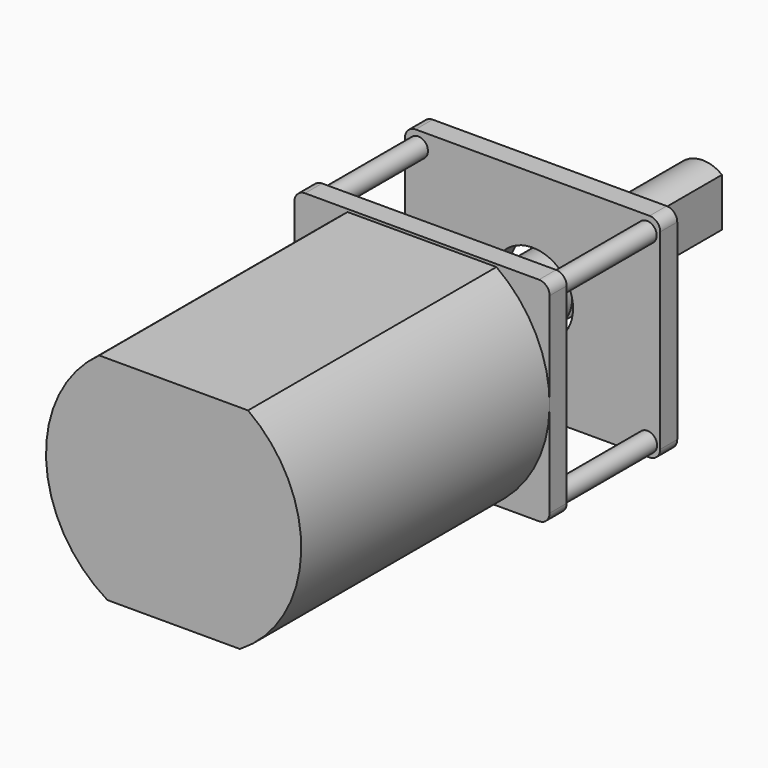
from build123d import *

# Parameters (mm, degrees)
PAD011_DEPTH    = 14.6
SKETCH023_W     = 12
SKETCH023_H     = 10
PAD012_DEPTH    = 1
FILLET003_R     = 0.5
SKETCH024_R     = 0.455689
PAD013_DEPTH    = 7.5
SKETCH025_W     = 12
SKETCH025_H     = 10
PAD014_DEPTH    = 1
SKETCH026_R     = 1.9
POCKET008_DEPTH = 7.5
SKETCH027_R     = 1.45
PAD015_DEPTH    = 9
FILLET004_R     = 0.5
POCKET009_DEPTH = 10


with BuildPart() as part:
    # Sketch022 → Pad011 (new body)
    with BuildSketch(Plane.XZ):
        with BuildLine():
            Line((-3.5, 19.873397), (3.5, 19.873397))
            ThreePointArc((3.117362, 9.873397), (5.995612, 14.770585), (3.5, 19.873397))
            Line((3.117362, 9.873397), (-3.117362, 9.873397))
            ThreePointArc((-3.5, 19.873397), (-5.995612, 14.770585), (-3.117362, 9.873397))
        make_face()
    extrude(amount=PAD011_DEPTH)

    # Sketch023 (on Face5 of Pad011) → Pad012 (join)
    with BuildSketch(Plane(origin=(0, 0, 0), x_dir=(1, 0, 0), z_dir=(0, 1, 0))):
        with Locations((0, -15)):
            Rectangle(SKETCH023_W, SKETCH023_H)
    extrude(amount=PAD012_DEPTH)

    # Fillet003
    fillet003_edges = [part.edges().sort_by_distance(p)[0] for p in [
        (6, 0.5, 20),
        (6, 0.5, 10),
        (-6, 0.5, 10),
        (-6, 0.5, 20),
    ]]
    fillet(fillet003_edges, radius=FILLET003_R)

    # Sketch024 → Pad013 (join)
    with BuildSketch(Plane.XZ):
        with Locations((-5.376898, 19.295448)):
            Circle(SKETCH024_R)
        with Locations((-5.395437, 10.616136)):
            Circle(SKETCH024_R)
        with Locations((5.395437, 10.616136)):
            Circle(SKETCH024_R)
        with Locations((5.376898, 19.295448)):
            Circle(SKETCH024_R)
    extrude(amount=-PAD013_DEPTH)

    # Sketch025 → Pad014 (join)
    with BuildSketch(Plane.XZ.offset(-7.5)):
        with Locations((0, 15)):
            Rectangle(SKETCH025_W, SKETCH025_H)
    extrude(amount=PAD014_DEPTH)

    # Sketch026 (on Face32 of Pad014) → Pocket008 (cut)
    with BuildSketch(Plane(origin=(0, 7.5, 0), x_dir=(1, 0, 0), z_dir=(0, 1, 0))):
        with Locations((0, -15)):
            Circle(SKETCH026_R)
    extrude(amount=-POCKET008_DEPTH, mode=Mode.SUBTRACT)

    # Sketch027 (on Face35 of Pocket008) → Pad015 (join, symmetric)
    with BuildSketch(Plane(origin=(0, 7.5, 0), x_dir=(1, 0, 0), z_dir=(0, 1, 0))):
        with Locations((0, -15)):
            Circle(SKETCH027_R)
    extrude(amount=PAD015_DEPTH, both=True)

    # Fillet004
    fillet004_edges = [part.edges().sort_by_distance(p)[0] for p in [
        (-6, 7, 20),
        (-6, 7, 10),
        (6, 7, 10),
        (6, 7, 20),
    ]]
    fillet(fillet004_edges, radius=FILLET004_R)

    # Sketch028 → Pocket009 (cut)
    with BuildSketch(Plane.XZ.offset(-7)):
        with BuildLine():
            ThreePointArc((0.9, 13.863118), (1.45, 15), (0.9, 16.136882))
            Line((0.9, 13.863118), (0.9, 16.136882))
        make_face()
    extrude(amount=-POCKET009_DEPTH, mode=Mode.SUBTRACT)


with BuildPart() as part_1:
    # Body007 placement: moved
    add(part.part.moved(Location((0, 19, 0))))


solid = part_1.part
